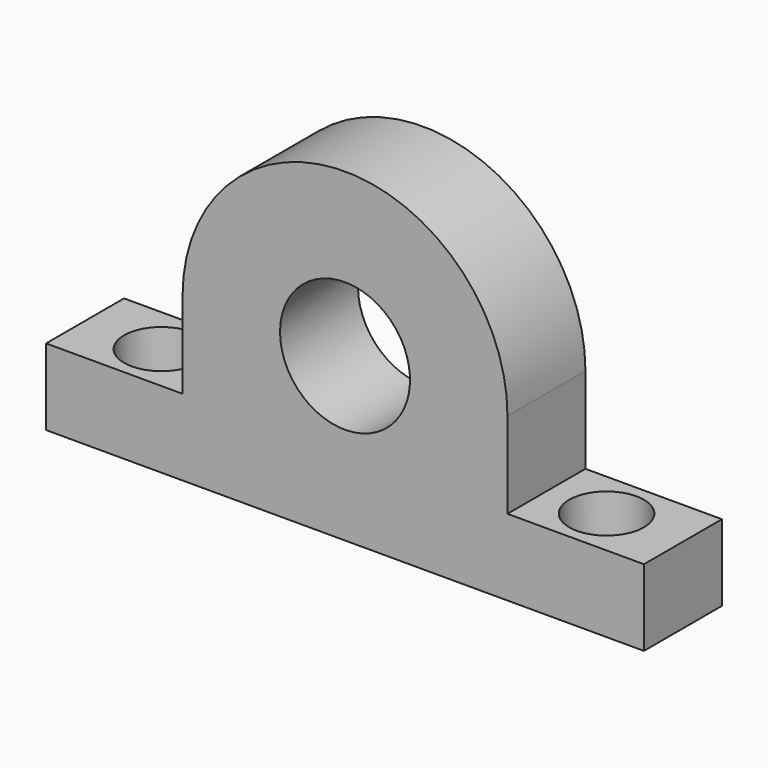
from build123d import *

# Parameters (mm, degrees)
F1_DEPTH = 30
F3_D     = 23


with BuildPart() as f1:
    # F0 (on Front) → F1 (new body)
    with BuildSketch(Plane.XZ):
        with BuildLine():
            Line((-50, -20.4615307876), (-92, -20.4615307876))
            Line((-92, -20.4615307876), (-92, -43.950894077))
            Line((-92, -43.950894077), (-1.508e-07, -43.950894077))
            ThreePointArc((-1.508e-07, -43.950894077), (-24.2329132675, -37.6860734474), (-42.393232257, -20.4615307876))
            Line((-42.393232257, -20.4615307876), (-50, -20.4615307876))
        make_face()
        with BuildLine():
            Line((-50, 6.049105923), (-50, -20.4615307876))
            Line((-50, -20.4615307876), (-42.393232257, -20.4615307876))
            ThreePointArc((-42.393232257, -20.4615307876), (-48.0606991879, -7.7410787594), (-50, 6.049105923))
        make_face()
        with BuildLine():
            ThreePointArc((-50, 6.049105923), (-48.0606991879, -7.7410787594), (-42.393232257, -20.4615307876))
            Line((-42.393232257, -20.4615307876), (42.393232257, -20.4615307876))
            ThreePointArc((42.393232257, -20.4615307876), (48.0606991879, -7.7410787594), (50, 6.049105923))
            Line((50, 6.049105923), (20, 6.049105923))
            ThreePointArc((20, 6.049105923), (0, -13.950894077), (-20, 6.049105923))
            Line((-20, 6.049105923), (-50, 6.049105923))
        make_face()
        with BuildLine():
            Line((42.393232257, -20.4615307876), (-42.393232257, -20.4615307876))
            ThreePointArc((-42.393232257, -20.4615307876), (-24.2329132675, -37.6860734474), (-1.508e-07, -43.950894077))
            ThreePointArc((-1.508e-07, -43.950894077), (24.2329131356, -37.6860735205), (42.393232257, -20.4615307876))
        make_face()
        with BuildLine():
            ThreePointArc((50, 6.049105923), (0, 56.049105923), (-50, 6.049105923))
            Line((-50, 6.049105923), (-20, 6.049105923))
            ThreePointArc((-20, 6.049105923), (0, 26.049105923), (20, 6.049105923))
            Line((20, 6.049105923), (50, 6.049105923))
        make_face()
        with BuildLine():
            ThreePointArc((42.393232257, -20.4615307876), (24.2329131356, -37.6860735205), (-1.508e-07, -43.950894077))
            Line((-1.508e-07, -43.950894077), (92, -43.950894077))
            Line((92, -43.950894077), (92, -20.4615307876))
            Line((92, -20.4615307876), (50, -20.4615307876))
            Line((50, -20.4615307876), (42.393232257, -20.4615307876))
        make_face()
        with BuildLine():
            ThreePointArc((50, 6.049105923), (48.0606991879, -7.7410787594), (42.393232257, -20.4615307876))
            Line((42.393232257, -20.4615307876), (50, -20.4615307876))
            Line((50, -20.4615307876), (50, 6.049105923))
        make_face()
    extrude(amount=F1_DEPTH)

    # F3 (through all)
    with Locations(Plane.XY.offset(-20.4615307876)):
        with Locations((-68.5, -15), (68.5, -15)):
            Hole(F3_D / 2)


solid = f1.part
